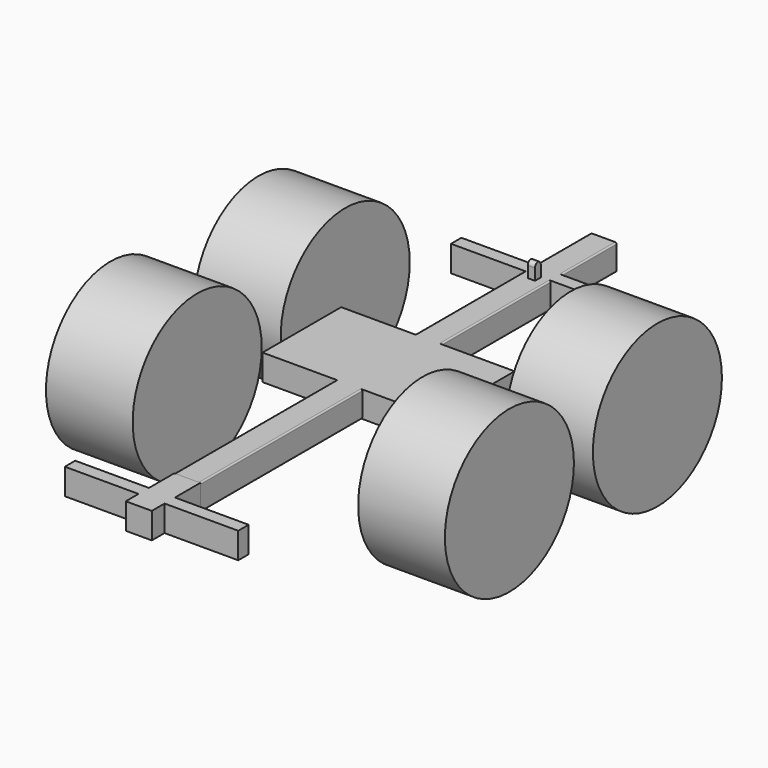
from build123d import *

# Parameters (mm, degrees)
F1_DEPTH  = 1800
F2_R      = 5
F3_W      = 296.1497008801
F3_H      = 45
F4_DEPTH  = 90
F5_W      = 300
F5_H      = 340
F6_DEPTH  = 90
F8_R      = 279
F9_DEPTH  = 300
F12_W     = 45
F12_H     = 90
F13_DEPTH = 210
F14_W     = 45
F14_H     = 90
F15_DEPTH = 300
F18_DEPTH = 12.5


with BuildPart() as f1:
    # F0 (on Front) → F1 (new body)
    with BuildSketch(Plane.XZ):
        Polygon((45, -89.4697085023), (45, 0), (0, 0), (0, -90), (45, -90), align=None)
    extrude(amount=-F1_DEPTH)

    # F2
    f2_edges = [f1.edges().sort_by_distance(p)[0] for p in [
        (45, 900, 0),
        (45, 900, -90),
    ]]
    fillet(f2_edges, radius=F2_R)

    # F3 (on Top) → F4 (join)
    with BuildSketch(Plane.XY):
        with Locations((151.92514956, 1537.5)):
            Rectangle(F3_W, F3_H)
    extrude(amount=-F4_DEPTH)

    # F5 (on Top) → F6 (join)
    with BuildSketch(Plane.XY):
        with Locations((150, 870)):
            Rectangle(F5_W, F5_H)
    extrude(amount=-F6_DEPTH)

    # F10: F1 across plane


with BuildPart() as f9:
    # F8 (on offset) → F9 (new body)
    with BuildSketch(Plane.YZ.offset(690)):
        with Locations((530, -59)):
            Circle(F8_R)
    extrude(amount=-F9_DEPTH)


with BuildPart() as f9b:
    # F8 (on offset) → F9, piece 2 (new body)
    with BuildSketch(Plane.YZ.offset(690)):
        with Locations((1170, -59)):
            Circle(F8_R)
    extrude(amount=-F9_DEPTH)


with BuildPart() as f1_1:
    add(f1.part)
    add(f1.part.mirror(Plane.YZ))

    # F17 (on Right) → F18 (join, symmetric)
    with BuildSketch(Plane.YZ):
        with BuildLine():
            ThreePointArc((1487.5605972138, 38.7706675292), (1500.6154125336, 27.5151584947), (1512.5, 40))
            ThreePointArc((1512.5, 40), (1499.3845874664, 52.4848415053), (1487.5605972138, 38.7706675292))
        make_face()
        with BuildLine():
            Line((1512.5, 0), (1512.5, 40))
            ThreePointArc((1512.5, 40), (1500.6154125336, 27.5151584947), (1487.5605972138, 38.7706675292))
            Line((1487.5605972138, 38.7706675292), (1487.5605972138, 0))
            Line((1487.5605972138, 0), (1512.5, 0))
        make_face()
    extrude(amount=F18_DEPTH, both=True)


with BuildPart() as f11_1:
    # F11: instance of F9b
    add(f9b.part.mirror(Plane.YZ))


with BuildPart() as f11_2:
    # F11: instance of F9
    add(f9.part.mirror(Plane.YZ))


with BuildPart() as f13:
    # F12 (on Front) → F13 (new body)
    with BuildSketch(Plane.XZ):
        with Locations((22.5, -45)):
            Rectangle(F12_W, F12_H)
    extrude(amount=F13_DEPTH)

    # F14 (on Right) → F15 (join)
    with BuildSketch(Plane.YZ):
        with Locations((-132.5, -45)):
            Rectangle(F14_W, F14_H)
    extrude(amount=F15_DEPTH)

    # F16: F13 across plane


with BuildPart() as f13_1:
    add(f13.part)
    add(f13.part.mirror(Plane.YZ))


solid = Compound([f9.part, f9b.part, f1_1.part, f11_1.part, f11_2.part, f13_1.part])
